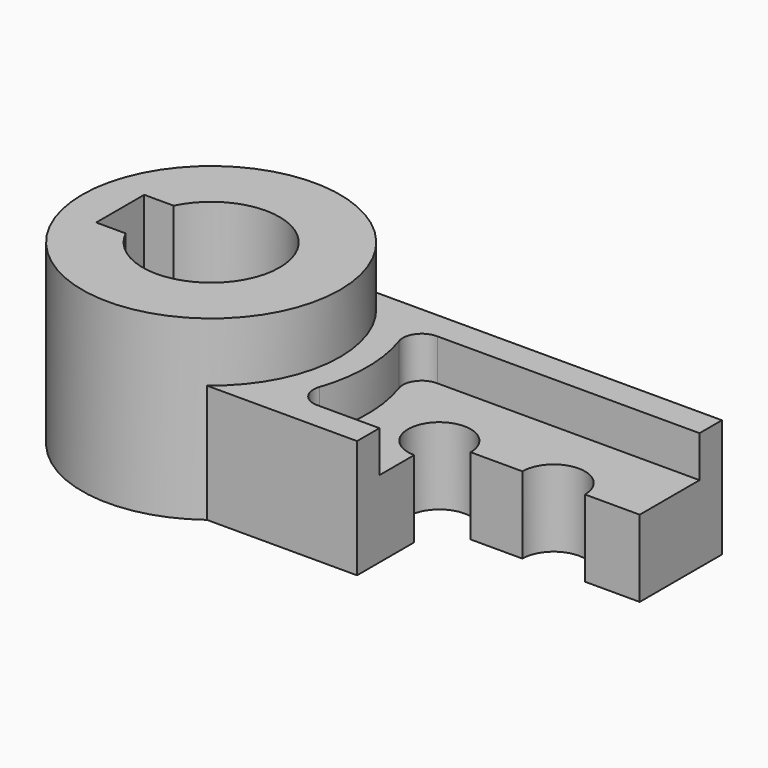
from build123d import *

# Parameters (mm, degrees)
PAD_DEPTH         = 20
SKETCH002_R       = 21.818264
PAD001_DEPTH      = 30
POCKET_DEPTH      = 0.001
POCKET_DEPTH_BACK = -30.001
POCKET001_DEPTH   = 7
SKETCH005_R       = 5.295073
POCKET002_DEPTH   = 13.001
POCKET003_DEPTH   = 20.001


with BuildPart() as part:
    # Sketch001 → Pad (new body)
    with BuildSketch(Plane.XY):
        with BuildLine():
            ThreePointArc((13.179717, -17.387688), (21.818264, 0), (13.179717, 17.387688))
            Line((13.179717, 17.387688), (92.096497, 17.387688))
            Line((92.096497, 17.387688), (92.096497, -17.387688))
            Line((92.096497, -17.387688), (13.179717, -17.387688))
        make_face()
    extrude(amount=PAD_DEPTH)

    # Sketch002 → Pad001 (join)
    with BuildSketch(Plane.XY):
        Circle(SKETCH002_R)
    extrude(amount=PAD001_DEPTH)

    # Sketch003 → Pocket (cut, two sides)
    with BuildSketch(Plane.XY) as pocket_sk:
        with BuildLine():
            ThreePointArc((-10.409979, -5.074877), (11.581107, 0), (-10.409979, 5.074877))
            Line((-10.409979, 5.074877), (-15.391012, 5.074877))
            Line((-15.391012, 5.074877), (-15.391012, -5.074877))
            Line((-15.391012, -5.074877), (-10.409979, -5.074877))
        make_face()
    extrude(amount=-POCKET_DEPTH, mode=Mode.SUBTRACT)
    extrude(pocket_sk.sketch, amount=-POCKET_DEPTH_BACK, mode=Mode.SUBTRACT)

    # Sketch004 → Pocket001 (cut)
    with BuildSketch(Plane.XY.offset(20)):
        with BuildLine():
            ThreePointArc((25.04314, -8.428525), (26.423454, 0), (25.04314, 8.428525))
            ThreePointArc((28.188104, 12.650604), (25.510048, 11.36309), (25.04314, 8.428525))
            Line((74.586278, 12.650604), (28.188104, 12.650604))
            Line((74.586278, -12.650604), (74.586278, 12.650604))
            Line((28.188104, -12.650604), (74.586278, -12.650604))
            ThreePointArc((25.04314, -8.428525), (25.510048, -11.36309), (28.188104, -12.650604))
        make_face()
    extrude(amount=-POCKET001_DEPTH, mode=Mode.SUBTRACT)

    # Sketch005 (on Face18 of Pocket001) → Pocket002 (cut, through all)
    with BuildSketch(Plane.XY.offset(13)):
        with Locations((57.961857, 0)):
            Circle(SKETCH005_R)
        with Locations((38.617462, 0)):
            Circle(SKETCH005_R)
    extrude(amount=-POCKET002_DEPTH, mode=Mode.SUBTRACT)

    # Sketch006 (on Face5 of Pocket002) → Pocket003 (cut, through all)
    with BuildSketch(Plane.XY.offset(20)):
        Polygon((38.599522, 0), (38.599522, -29.031481), (99.493477, -29.031481), (99.493477, 19.057034), (72.520317, 19.057034), (72.520317, 0), align=None)
    extrude(amount=-POCKET003_DEPTH, mode=Mode.SUBTRACT)


solid = part.part
